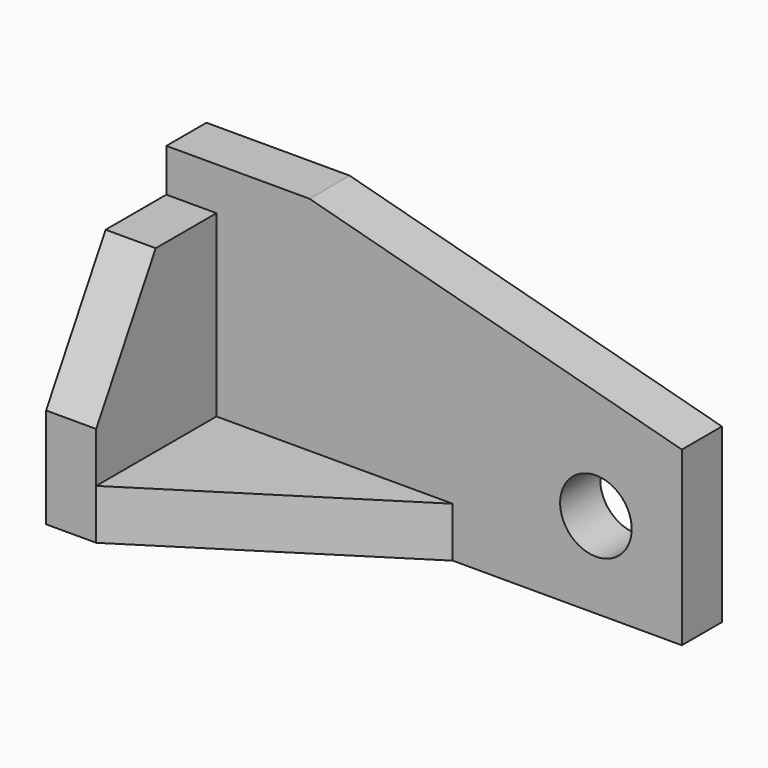
from build123d import *

# Parameters (mm, degrees)
F3_DEPTH = 11.1125
F4_DEPTH = 11.1125
F2_R     = 7.9375
F5_DEPTH = 11.1125


with BuildPart() as f3:
    # F0 (on Top) → F3 (new body)
    with BuildSketch(Plane.XY):
        Polygon((52.3875, 0), (0, 0), (0, -33.3375), align=None)
    extrude(amount=F3_DEPTH)

    # F1 (on Right) → F4 (join)
    with BuildSketch(Plane.YZ):
        Polygon((-33.3375, 0), (0, 0), (0, 50.8), (-16.839716, 50.8), (-33.3375, 22.225), align=None)
    extrude(amount=-F4_DEPTH)


with BuildPart() as f5:
    # F2 (on Front) → F5 (new body)
    with BuildSketch(Plane.XZ):
        Polygon((20.6375, 60.325), (-11.1125, 60.325), (-11.1125, 0), (103.1875, 0), (103.1875, 38.205794), align=None)
        with Locations((84.1375, 19.05)):
            Circle(F2_R, mode=Mode.SUBTRACT)
    extrude(amount=-F5_DEPTH)


solid = Compound([f3.part, f5.part])
